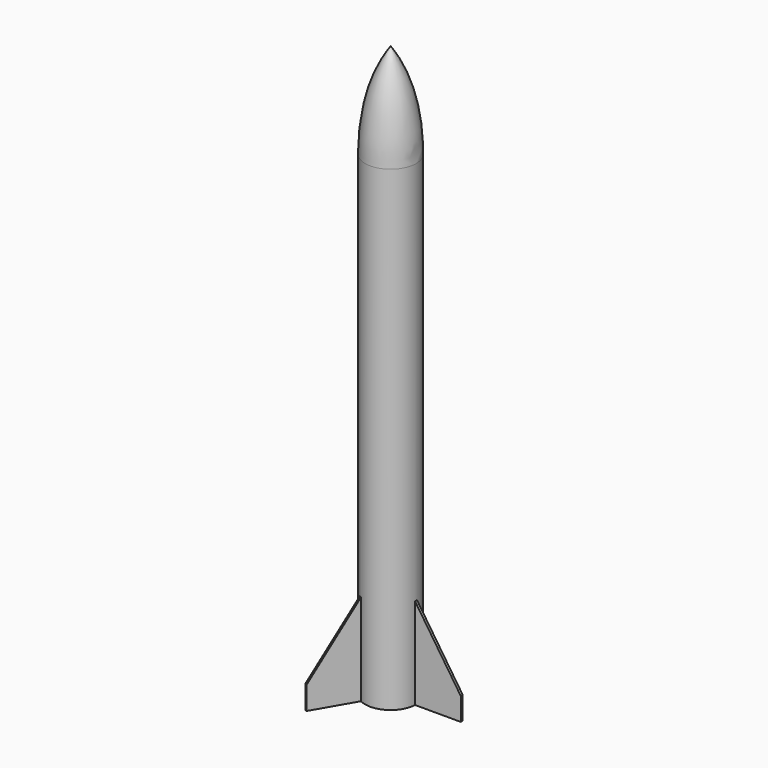
from build123d import *

# Parameters (mm, degrees)
SKETCH_R           = 66.6
PAD_DEPTH          = 1250
PAD001_DEPTH       = 3.185
POLARPATTERN_COUNT = 3


with BuildPart() as part:
    # Sketch → Pad (new body)
    with BuildSketch(Plane.XY):
        Circle(SKETCH_R)
    extrude(amount=PAD_DEPTH)

    # Sketch001 → Revolution (revolve)
    with BuildSketch(Plane.XZ):
        with BuildLine():
            Line((0, 1500), (0, 1250))
            Line((0, 1250), (-66.6, 1250))
            add(Edge.make_bspline(
                [(0, 1500), (-35, 1450), (-66.6, 1375), (-66.6, 1250)],
                knots=[0, 0, 0, 0, 1, 1, 1, 1], degree=3))
        make_face()
    revolve(axis=Axis((0, 0, 0), (0, 0, 1)))

    # Sketch002 → Pad001 (join, symmetric)
    with BuildSketch(Plane.XZ):
        Polygon((66.6, 240), (186.6, 60), (186.6, 0), (66.6, 0), (0, 0), (0, 240), align=None)
    pad001 = extrude(amount=PAD001_DEPTH, both=True)

    # PolarPattern: Pad001 ×3 about axis
    polarpattern_axis = Axis((0, 0, 0), (0, 0, 1))
    for i in range(1, POLARPATTERN_COUNT):
        add(pad001.rotate(polarpattern_axis, i * 360 / POLARPATTERN_COUNT))


solid = part.part
